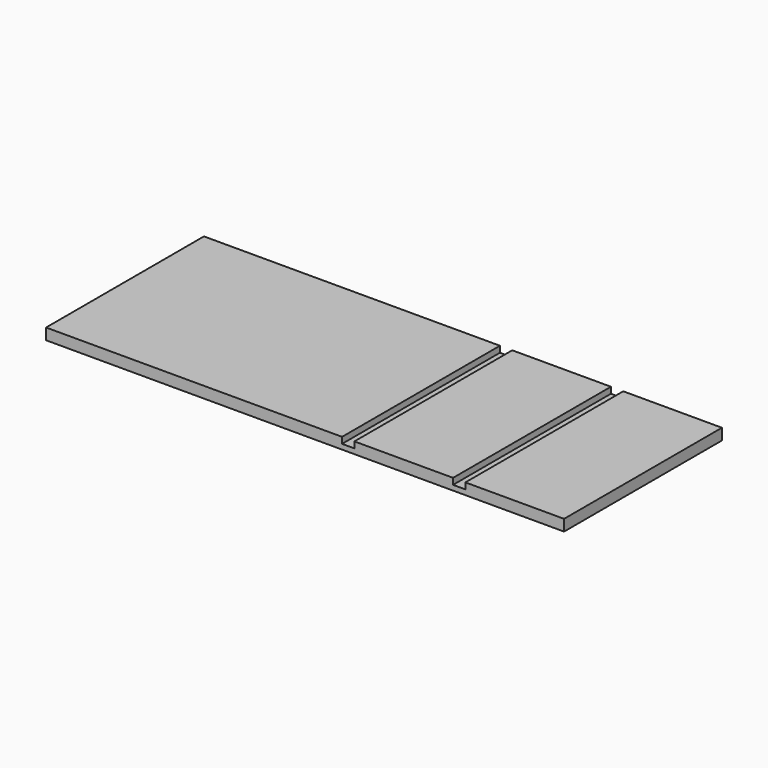
from build123d import *

# Parameters (mm, degrees)
F0_W     = 133.35
F0_H     = 50.8
F1_DEPTH = 2.8956
F2_W     = 3.175
F2_H     = 50.8
F3_DEPTH = 1.5875


with BuildPart() as f1:
    # F0 (on Top) → F1 (new body)
    with BuildSketch(Plane.XY):
        Rectangle(F0_W, F0_H)
    extrude(amount=F1_DEPTH)

    # F2 (on face) → F3 (cut)
    with BuildSketch(Plane.XY.offset(2.8956)):
        with Locations((39.6875, 0)):
            Rectangle(F2_W, F2_H)
        with Locations((11.1125, 0)):
            Rectangle(F2_W, F2_H)
    extrude(amount=-F3_DEPTH, mode=Mode.SUBTRACT)


solid = f1.part
